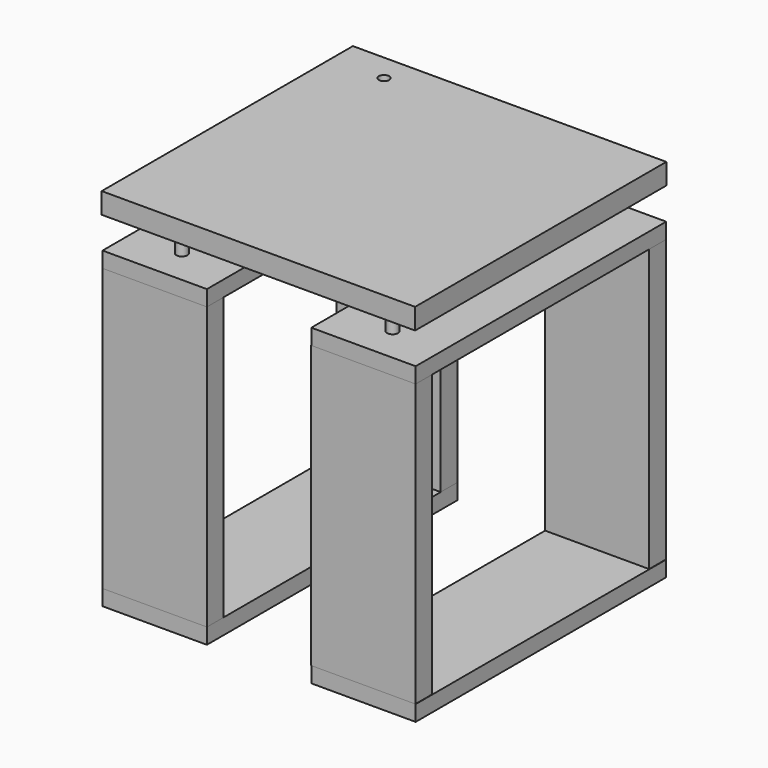
from build123d import *

# Parameters (mm, degrees)
F0_W      = 127
F0_H      = 381
F1_DEPTH  = 19.05
F2_W      = 127
F2_H      = 25.4
F3_DEPTH  = 342.9
F4_W      = 127
F4_H      = 355.6
F4_H_2    = 25.4
F4_H_3    = 381
F5_DEPTH  = 19.05
F6_W      = 127
F6_H      = 19.05
F7_DEPTH  = 127
F8_R      = 6.35
F8_R_2    = 6.722273
F9_DEPTH  = 38.1
F10_W     = 381.342619
F10_H     = 382.062152
F10_R     = 6.35
F11_DEPTH = 25.4


with BuildPart() as f1:
    # F0 (on Top) → F1 (new body)
    with BuildSketch(Plane.XY):
        with Locations((-127, -53.578084)):
            Rectangle(F0_W, F0_H)
        with Locations((127, -53.578084)):
            Rectangle(F0_W, F0_H)
    extrude(amount=F1_DEPTH)


with BuildPart() as f3:
    # F2 (on face) → F3 (new body)
    with BuildSketch(Plane.XY.offset(19.05)):
        with Locations((-127, 124.221916)):
            Rectangle(F2_W, F2_H)
        with Locations((126.646167, 124.221916)):
            Rectangle(F2_W, F2_H)
        with Locations((126.646167, -231.378084)):
            Rectangle(F2_W, F2_H)
        with Locations((-127, -231.378084)):
            Rectangle(F2_W, F2_H)
    extrude(amount=F3_DEPTH)


with BuildPart() as f5:
    # F4 (on face) → F5 (new body)
    with BuildSketch(Plane.XY.offset(361.95)):
        with Locations((-127, -66.278084)):
            Rectangle(F4_W, F4_H)
        with Locations((-127, 124.221916)):
            Rectangle(F4_W, F4_H_2)
        with Locations((127, -53.578084)):
            Rectangle(F4_W, F4_H_3)
    extrude(amount=F5_DEPTH)


with BuildPart() as f7:
    # F6 (on face) → F7 (new body)
    with BuildSketch(Plane.YZ.offset(-63.5)):
        with Locations((-42.076344, 371.475)):
            Rectangle(F6_W, F6_H)
    extrude(amount=F7_DEPTH)


with BuildPart() as f9:
    # F8 (on face) → F9 (new body)
    with BuildSketch(Plane.XY.offset(381)):
        with Locations((-127.131641, 104.858607)):
            Circle(F8_R)
        with Locations((127.131641, 104.858607)):
            Circle(F8_R)
        with Locations((-128.191084, -201.316774)):
            Circle(F8_R_2)
        with Locations((128.191084, -201.316774)):
            Circle(F8_R_2)
    extrude(amount=F9_DEPTH)


with BuildPart() as f11:
    # F10 (on face) → F11 (new body)
    with BuildSketch(Plane.XY.offset(419.1)):
        with Locations((-0.719518, -53.218327)):
            Rectangle(F10_W, F10_H)
        with Locations((-127.131641, 104.858607)):
            Circle(F10_R, mode=Mode.SUBTRACT)
    extrude(amount=F11_DEPTH)


solid = Compound([f1.part, f3.part, f5.part, f7.part, f9.part, f11.part])
